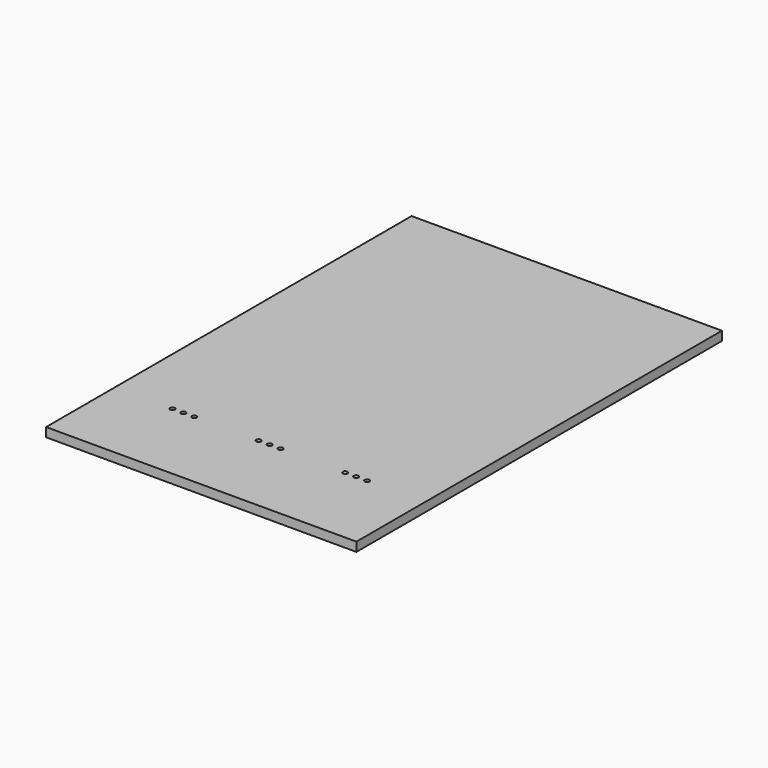
from build123d import *

# Parameters (mm, degrees)
F0_W     = 72
F0_H     = 106
F1_DEPTH = 2.1
F3_D     = 1.1


with BuildPart() as f1:
    # F0 (on Top) → F1 (new body)
    with BuildSketch(Plane.XY):
        with Locations((36, 53)):
            Rectangle(F0_W, F0_H)
    extrude(amount=F1_DEPTH)

    # F3 (through all)
    with Locations(Plane.XY.offset(2.1)):
        with Locations((13.4, 19.9), (15.94, 19.9), (18.48, 19.9), (33.4, 19.9), (35.94, 19.9), (38.48, 19.9), (53.48, 19.9), (56.02, 19.9), (58.56, 19.9)):
            Hole(F3_D / 2)


solid = f1.part
